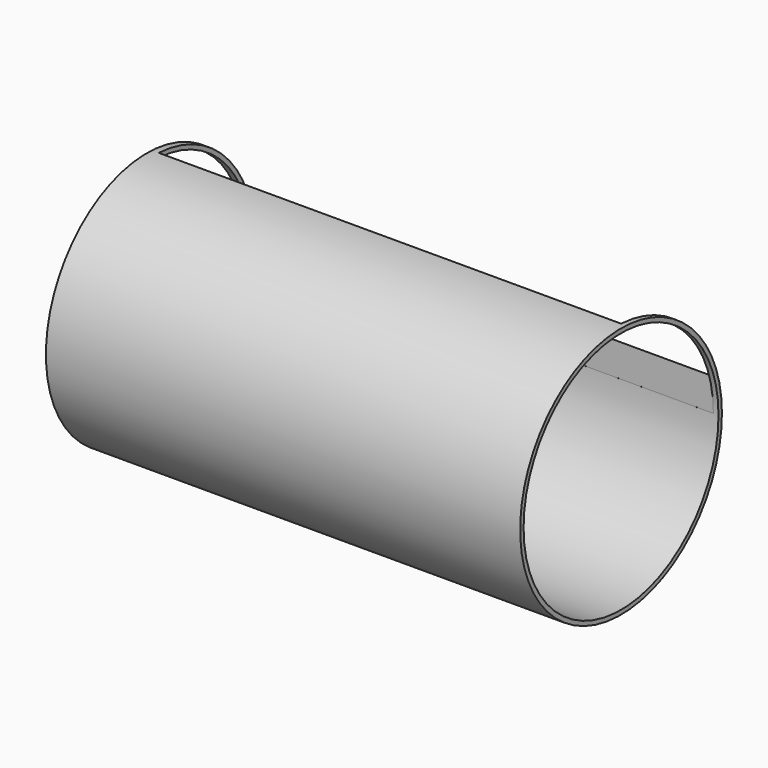
from build123d import *

# Parameters (mm, degrees)
F0_R     = 76.311226
F1_DEPTH = 287.02
F2_R     = 73.720997
F3_DEPTH = 1714.5
F4_W     = 279.827215
F4_H     = 69.845937
F5_DEPTH = 122.428


with BuildPart() as f1:
    # F0 (on Right) → F1 (new body)
    with BuildSketch(Plane.YZ):
        Circle(F0_R)
    extrude(amount=-F1_DEPTH)

    # F2 (on Right) → F3 (cut)
    with BuildSketch(Plane.YZ):
        Circle(F2_R)
    extrude(amount=-F3_DEPTH, mode=Mode.SUBTRACT)

    # F4 (on Top) → F5 (cut)
    with BuildSketch(Plane.XY):
        with Locations((-142.993759, 38.803298)):
            Rectangle(F4_W, F4_H)
    extrude(amount=F5_DEPTH, mode=Mode.SUBTRACT)


solid = f1.part
